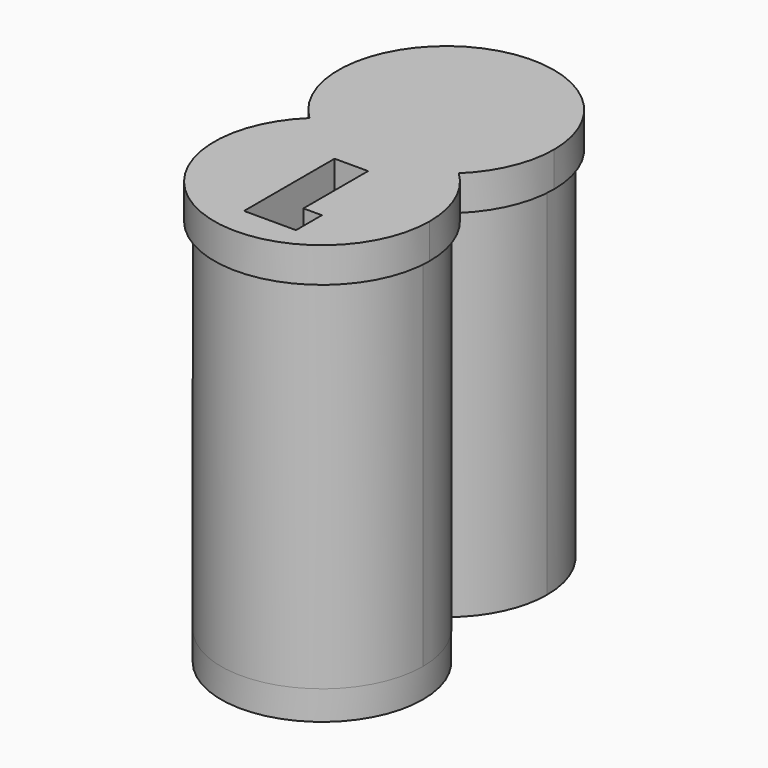
from build123d import *

# Parameters (mm, degrees)
F1_DEPTH = 2.286
F3_DEPTH = 23.495
F5_DEPTH = 12.7
F6_R     = 6.604
F7_DEPTH = 1.905
F9_DEPTH = 17.25


with BuildPart() as f1:
    # F0 (on Top) → F1 (new body)
    with BuildSketch(Plane.XY):
        with BuildLine():
            ThreePointArc((4.8862001852, 0), (6.4854349991, 2.3194773824), (7.0485, 5.08))
            ThreePointArc((7.0485, 5.08), (-2.7605226176, 11.5654349991), (-4.8862001852, 0))
            ThreePointArc((-4.8862001852, 0), (0, 1.9685), (4.8862001852, 0))
        make_face()
        with BuildLine():
            ThreePointArc((4.8862001852, 0), (0, 1.9685), (-4.8862001852, 0))
            ThreePointArc((-4.8862001852, 0), (0, -1.9685), (4.8862001852, 0))
        make_face()
        with BuildLine():
            ThreePointArc((4.8862001852, 0), (0, -1.9685), (-4.8862001852, 0))
            ThreePointArc((-4.8862001852, 0), (-2.7605226176, -11.5654349991), (7.0485, -5.08))
            ThreePointArc((7.0485, -5.08), (6.4854349991, -2.3194773824), (4.8862001852, 0))
        make_face()
    extrude(amount=F1_DEPTH)

    # F2 (on face) → F3 (join)
    with BuildSketch(Plane(origin=(0, 0, 0), x_dir=(1, 0, 0), z_dir=(0, 0, -1))):
        with BuildLine():
            ThreePointArc((4.2197649224, 0), (5.9783000739, 2.2741589093), (6.604, 5.08))
            ThreePointArc((6.604, 5.08), (-2.8058410907, 11.0583000739), (-4.2197649224, 0))
            ThreePointArc((-4.2197649224, 0), (0, 1.524), (4.2197649224, 0))
        make_face()
        with BuildLine():
            ThreePointArc((4.2197649224, 0), (0, 1.524), (-4.2197649224, 0))
            ThreePointArc((-4.2197649224, 0), (0, -1.524), (4.2197649224, 0))
        make_face()
        with BuildLine():
            ThreePointArc((4.2197649224, 0), (0, -1.524), (-4.2197649224, 0))
            ThreePointArc((-4.2197649224, 0), (-2.8058410907, -11.0583000739), (6.604, -5.08))
            ThreePointArc((6.604, -5.08), (5.9783000739, -2.2741589093), (4.2197649224, 0))
        make_face()
    extrude(amount=F3_DEPTH)

    # F4 (on face) → F5 (cut)
    with BuildSketch(Plane.XY.offset(2.286)):
        Polygon((1.1175982522, -2.7082355227), (-1.0746682528, -2.7082355227), (-1.0746682528, -10.1121831685), (2.3251036182, -10.1121831685), (2.3251036182, -7.996769622), (1.1162960436, -7.996769622), align=None)
    extrude(amount=-F5_DEPTH, mode=Mode.SUBTRACT)

    # F6 (on face) → F7 (join)
    with BuildSketch(Plane(origin=(0, 0, -23.495), x_dir=(1, 0, 0), z_dir=(0, 0, -1))):
        with Locations((0, 5.08)):
            Circle(F6_R)
    extrude(amount=F7_DEPTH)

    # F8 (on face) → F9 (join)
    with BuildSketch(Plane(origin=(0, 0, -23.495), x_dir=(1, 0, 0), z_dir=(0, 0, -1))):
        with BuildLine():
            ThreePointArc((-5.7929773658, 1.2513933032), (-6.4591589625, 0.142315863), (-6.0144739499, -1.0726351351))
            ThreePointArc((-6.0144739499, -1.0726351351), (-1.0745990182, -3.4566300699), (4.302, -2.3712825742))
            Line((4.302, -2.3712825742), (0, 5.08))
            Line((0, 5.08), (-5.7929773658, 1.2513933032))
        make_face()
    extrude(amount=-F9_DEPTH)


solid = f1.part
